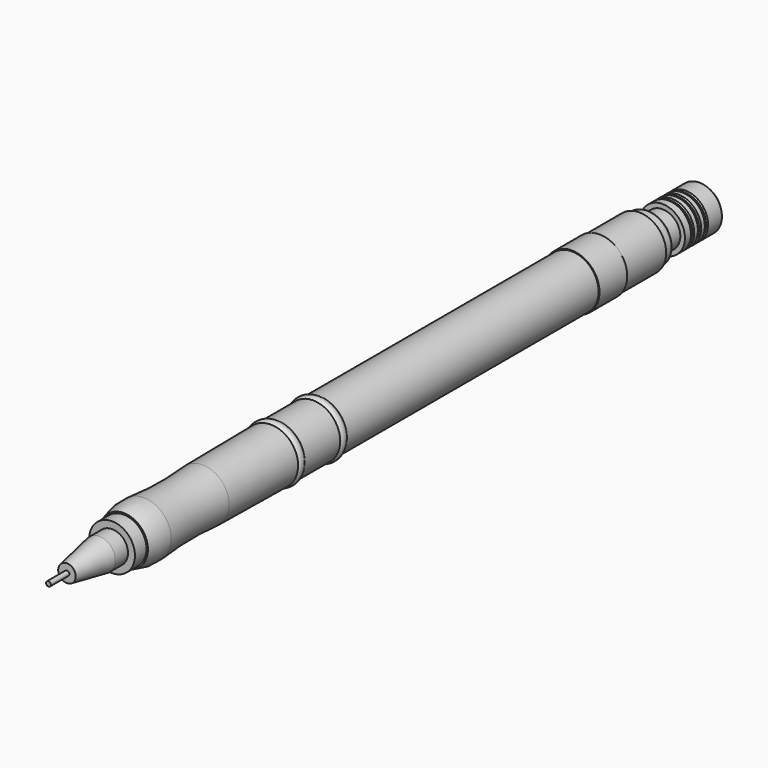
from build123d import *

# Parameters (mm, degrees)
F0_R      = 4.65
F1_DEPTH  = 69
F2_R      = 4.7
F3_DEPTH  = 10.7
F7_R      = 1
F9_R      = 3.95
F10_DEPTH = 2.5
F11_R     = 2.75
F12_DEPTH = 2.75
F13_R     = 2.75
F14_DEPTH = 7
F14_TAPER = 10
F15_R     = 0.415
F16_DEPTH = 4
F17_R     = 4.25
F18_DEPTH = 2
F19_R     = 3.1
F20_DEPTH = 3
F21_R     = 0.5
F22_R     = 3.9
F23_DEPTH = 9
F24_SIZE  = 1
F25_W     = 0.3
F25_H     = 1
F27_SIZE  = 0.2
F29_R     = 4.8
F29_R_2   = 4.25
F30_DEPTH = 6


with BuildPart() as f1:
    # F0 (on Front) → F1 (new body)
    with BuildSketch(Plane.XZ):
        Circle(F0_R)
    extrude(amount=F1_DEPTH)


with BuildPart() as f3:
    # F2 (on face) → F3 (new body)
    with BuildSketch(Plane.XZ.offset(69)):
        Circle(F2_R)
    extrude(amount=F3_DEPTH)


with BuildPart() as f5:
    # F4 (on Right) → F5 (revolve)
    with BuildSketch(Plane.YZ):
        with BuildLine():
            Line((-111.45, 0), (-79.7, 0))
            Line((-79.7, 0), (-79.7, 4.75))
            Line((-79.7, 4.75), (-94.4050463234, 4.6))
            ThreePointArc((-94.4050463234, 4.6), (-100.7521748167, 4.3808865879), (-107.092469306, 4.7479241692))
            ThreePointArc((-107.092469306, 4.7479241692), (-109.302751818, 4.7246117579), (-111.45, 4.2))
            Line((-111.45, 4.2), (-111.45, 0))
        make_face()
    revolve(axis=Axis((0, -79.7, 0), (0, -1, 0)))


with BuildPart() as f8:
    # F7 (on Right) → F8 (revolve)
    with BuildSketch(Plane.YZ):
        with Locations((-78.9, 4)):
            Circle(F7_R)
    revolve(axis=Axis((0, -69, 0), (0, 1, 0)))


with BuildPart() as f8b:
    # F7 (on Right) → F8, piece 2 (revolve)
    with BuildSketch(Plane.YZ):
        with Locations((-69.8, 4)):
            Circle(F7_R)
    revolve(axis=Axis((0, -69, 0), (0, 1, 0)))


with BuildPart() as f10:
    # F9 (on face) → F10 (new body)
    with BuildSketch(Plane.XZ.offset(111.45)):
        Circle(F9_R)
    extrude(amount=F10_DEPTH)

    # F11 (on face) → F12 (join)
    with BuildSketch(Plane.XZ.offset(113.95)):
        Circle(F11_R)
    extrude(amount=F12_DEPTH)

    # F13 (on face) → F14 (join)
    with BuildSketch(Plane.XZ.offset(116.7)):
        Circle(F13_R)
    extrude(amount=F14_DEPTH, taper=F14_TAPER)

    # F15 (on face) → F16 (join)
    with BuildSketch(Plane.XZ.offset(123.7)):
        Circle(F15_R)
    extrude(amount=F16_DEPTH)


with BuildPart() as f18:
    # F17 (on face) → F18 (new body)
    with BuildSketch(Plane(origin=(0, 0, 0), x_dir=(-1, 0, 0), z_dir=(0, 1, 0))):
        Circle(F17_R)
    extrude(amount=F18_DEPTH)

    # F21
    f21_edges = [f18.edges().sort_by_distance(p)[0] for p in [
        (4.25, 2, 0),
    ]]
    fillet(f21_edges, radius=F21_R)


with BuildPart() as f20:
    # F19 (on face) → F20 (new body)
    with BuildSketch(Plane(origin=(0, 2, 0), x_dir=(-1, 0, 0), z_dir=(0, 1, 0))):
        Circle(F19_R)
    extrude(amount=F20_DEPTH)

    # F22 (on face) → F23 (join)
    with BuildSketch(Plane(origin=(0, 5, 0), x_dir=(-1, 0, 0), z_dir=(0, 1, 0))):
        Circle(F22_R)
    extrude(amount=F23_DEPTH)

    # F24
    f24_edges = [f20.edges().sort_by_distance(p)[0] for p in [
        (3.9, 14, 0),
    ]]
    chamfer(f24_edges, length=F24_SIZE)

    # F25 (on Right) → F26 (revolve, cut)
    with BuildSketch(Plane.YZ):
        with Locations((6.65, 4)):
            Rectangle(F25_W, F25_H)
        with Locations((8.15, 4)):
            Rectangle(F25_W, F25_H)
        with Locations((9.65, 4)):
            Rectangle(F25_W, F25_H)
    revolve(axis=Axis((0, 5, 0), (0, -1, 0)), mode=Mode.SUBTRACT)

    # F27
    f27_edges = [f20.edges().sort_by_distance(p)[0] for p in [
        (3.9, 6.5, 0),
        (3.9, 6.8, 0),
        (3.9, 8, 0),
        (3.9, 8.3, 0),
        (3.9, 9.5, 0),
        (3.9, 9.8, 0),
    ]]
    chamfer(f27_edges, length=F27_SIZE)


with BuildPart() as f30:
    # F29 (on offset) → F30 (new body)
    with BuildSketch(Plane.XZ.offset(14.6)):
        Circle(F29_R)
        Circle(F29_R_2, mode=Mode.SUBTRACT)
    extrude(amount=-F30_DEPTH)


solid = Compound([f1.part, f3.part, f5.part, f8.part, f8b.part, f10.part, f18.part, f20.part, f30.part])
